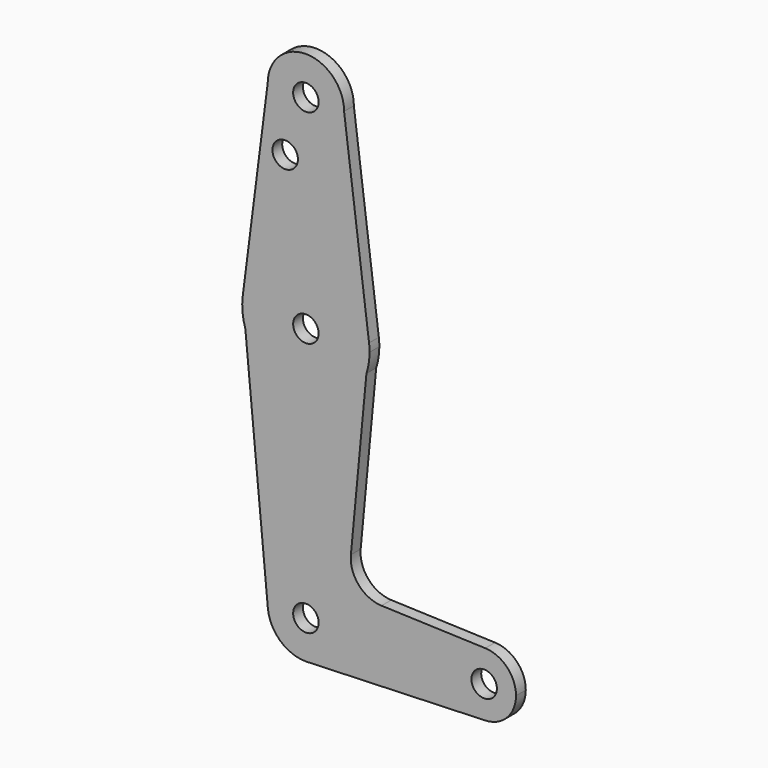
from build123d import *

# Parameters (mm, degrees)
F0_R     = 3.175
F1_DEPTH = 3.048


with BuildPart() as f1:
    # F0 (on Front) → F1 (new body)
    with BuildSketch(Plane.XZ):
        with BuildLine():
            ThreePointArc((0.6773435479, -9.6277493247), (6.9705567315, -6.618162627), (9.525, -0.1268635387))
            ThreePointArc((9.525, -0.1268635387), (-0.4478112651, 9.38760387), (-9.4828929283, -1.0214957039))
            ThreePointArc((-9.4828929283, -1.0214957039), (-6.4110940418, -7.171258345), (0, -9.6518635387))
            Line((0, -9.6518635387), (0.6773435479, -9.6277493247))
        make_face()
        with Locations((0, -0.1268635387)):
            Circle(F0_R, mode=Mode.SUBTRACT)
        with BuildLine():
            ThreePointArc((-9.4828929283, -1.0214957039), (-0.4478112651, 9.38760387), (9.525, -0.1268635387))
            Line((9.525, -0.1268635387), (36.5125, -0.1268635387))
            ThreePointArc((36.5125, -0.1268635387), (38.9380895153, 5.5847692452), (44.7324052746, 7.8056110759))
            Line((44.7324052746, 7.8056110759), (18.854776384, 8.7268846061))
            ThreePointArc((18.854776384, 8.7268846061), (13.1636347791, 11.4263844694), (11.2225788762, 17.4187708272))
            Line((11.2225788762, 17.4187708272), (15.0940259351, 58.4552094519))
            ThreePointArc((15.0940259351, 58.4552094519), (0, 47.4981364613), (-15.0940259351, 58.4552094519))
            Line((-15.0940259351, 58.4552094519), (-9.4828929283, -1.0214957039))
        make_face()
        with BuildLine():
            Line((36.5125, -0.1268635387), (9.525, -0.1268635387))
            ThreePointArc((9.525, -0.1268635387), (6.9705567315, -6.618162627), (0.6773435479, -9.6277493247))
            Line((0.6773435479, -9.6277493247), (44.7324052746, -8.0593381533))
            ThreePointArc((44.7324052746, -8.0593381533), (38.9380895153, -5.8384963226), (36.5125, -0.1268635387))
        make_face()
        with BuildLine():
            ThreePointArc((44.7324052746, 7.8056110759), (38.9380895153, 5.5847692452), (36.5125, -0.1268635387))
            ThreePointArc((36.5125, -0.1268635387), (38.9380895153, -5.8384963226), (44.7324052746, -8.0593381533))
            ThreePointArc((44.7324052746, -8.0593381533), (50.1616327839, -5.6387740234), (52.3875, -0.1268635387))
            ThreePointArc((52.3875, -0.1268635387), (50.1616327839, 5.385046946), (44.7324052746, 7.8056110759))
        make_face()
        with BuildLine():
            ThreePointArc((47.625, -0.1268635387), (44.45, -3.3018635387), (41.275, -0.1268635387))
            ThreePointArc((41.275, -0.1268635387), (44.45, 3.0481364613), (47.625, -0.1268635387))
        make_face(mode=Mode.SUBTRACT)
        with BuildLine():
            ThreePointArc((0, -9.6518635387), (0.3388863295, -9.6458330762), (0.6773435479, -9.6277493247))
            Line((0.6773435479, -9.6277493247), (0, -9.6518635387))
        make_face()
        with BuildLine():
            Line((-15.7474569047, 65.3814257917), (-15.0940259351, 58.4552094519))
            ThreePointArc((-15.0940259351, 58.4552094519), (0, 47.4981364613), (15.0940259351, 58.4552094519))
            Line((15.0940259351, 58.4552094519), (15.7474569047, 65.3814257917))
            ThreePointArc((15.7474569047, 65.3814257917), (0, 79.2481364613), (-15.7474569047, 65.3814257917))
        make_face()
        with Locations((0, 63.3731364613)):
            Circle(F0_R, mode=Mode.SUBTRACT)
        with BuildLine():
            ThreePointArc((-15.7474569047, 65.3814257917), (-15.8048215471, 61.8820828527), (-15.0940259351, 58.4552094519))
            Line((-15.0940259351, 58.4552094519), (-15.7474569047, 65.3814257917))
        make_face()
        with BuildLine():
            Line((-9.525, 114.1731364613), (-15.7474569047, 65.3814257917))
            ThreePointArc((-15.7474569047, 65.3814257917), (0, 79.2481364613), (15.7474569047, 65.3814257917))
            Line((15.7474569047, 65.3814257917), (9.525, 114.1731364613))
            ThreePointArc((9.525, 114.1731364613), (0, 104.6481364613), (-9.525, 114.1731364613))
        make_face()
        with Locations((-5.1641077735, 99.8983364613)):
            Circle(F0_R, mode=Mode.SUBTRACT)
        with BuildLine():
            Line((15.7474569047, 65.3814257917), (15.0940259351, 58.4552094519))
            ThreePointArc((15.0940259351, 58.4552094519), (15.6785408556, 60.8833610417), (15.875, 63.3731364613))
            ThreePointArc((15.875, 63.3731364613), (15.8430821396, 64.3793041009), (15.7474569047, 65.3814257917))
        make_face()
        with BuildLine():
            ThreePointArc((9.525, 114.1731364613), (0, 123.6981364613), (-9.525, 114.1731364613))
            ThreePointArc((-9.525, 114.1731364613), (0, 104.6481364613), (9.525, 114.1731364613))
        make_face()
        with Locations((0, 114.1731364613)):
            Circle(F0_R, mode=Mode.SUBTRACT)
    extrude(amount=F1_DEPTH)


solid = f1.part
